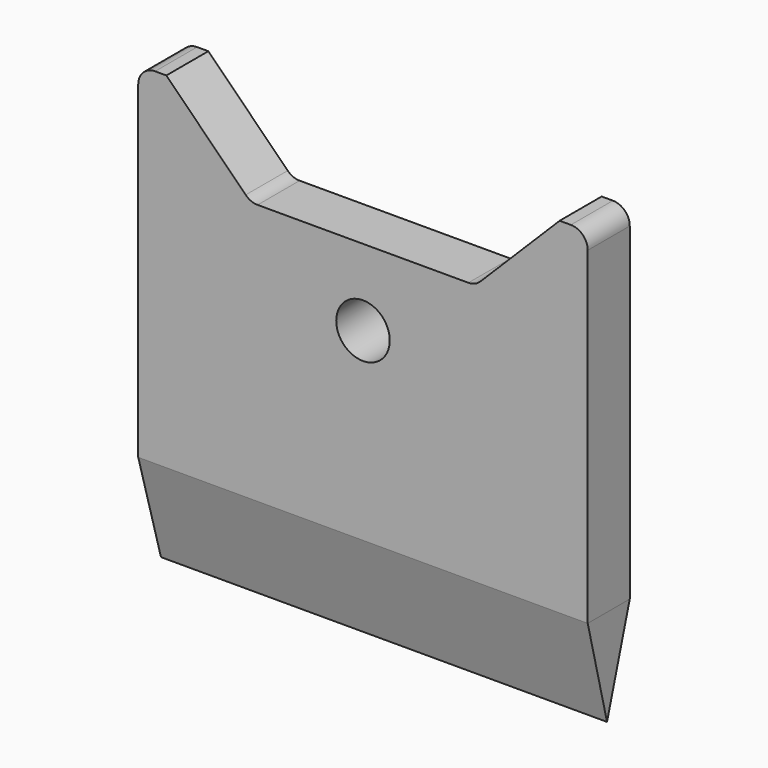
from build123d import *

# Parameters (mm, degrees)
F1_DEPTH = 9.35
F3_DEPTH = 80.001
F5_DEPTH = 9.351
F6_D     = 9.525


with BuildPart() as f1:
    # F0 (on Front) → F1 (new body)
    with BuildSketch(Plane.XZ):
        with BuildLine():
            Line((-40, -31.95), (40, -31.95))
            Line((40, -31.95), (40, 31.95))
            Line((40, 31.95), (40, 43.95))
            ThreePointArc((40, 43.95), (39.1213203436, 46.0713203436), (37, 46.95))
            Line((37, 46.95), (35, 46.95))
            Line((35, 46.95), (20.8786796564, 32.8286796564))
            ThreePointArc((20.8786796564, 32.8286796564), (19.90540961, 32.1783614025), (18.7573593129, 31.95))
            Line((18.7573593129, 31.95), (-18.7573593129, 31.95))
            ThreePointArc((-18.7573593129, 31.95), (-19.90540961, 32.1783614025), (-20.8786796564, 32.8286796564))
            Line((-20.8786796564, 32.8286796564), (-35, 46.95))
            Line((-35, 46.95), (-37, 46.95))
            ThreePointArc((-37, 46.95), (-39.1213203436, 46.0713203436), (-40, 43.95))
            Line((-40, 43.95), (-40, 31.95))
            Line((-40, 31.95), (-40, -31.95))
        make_face()
    extrude(amount=F1_DEPTH)

    # F2 (on face) → F3 (cut, through all)
    with BuildSketch(Plane.YZ.offset(40)):
        Polygon((0.6493095733, -12.0794061572), (-4.675, -31.95), (-9.9993095733, -12.0794061572), (-14.2520674504, -12.0794061572), (-14.2520674504, -36.8148345501), (6.057018973, -36.8148345501), (6.057018973, -12.0794061572), align=None)
    extrude(amount=-F3_DEPTH, mode=Mode.SUBTRACT)

    # F4 (on face) → F5 (cut, through all)
    with BuildSketch(Plane.XZ.offset(9.35)):
        Polygon((-39.5772941897, -38.7194621272), (-40, -14.5026624746), (-52.0872474203, -14.5026624746), (-52.0872474203, -38.7194621272), align=None)
        Polygon((48.822511771, -14.5026624746), (40, -14.5026624746), (39.5603374031, -39.6909157795), (48.822511771, -39.6909157795), align=None)
    extrude(amount=-F5_DEPTH, mode=Mode.SUBTRACT)

    # F6 (through all)
    with Locations(Plane(origin=(0, 0, 0), x_dir=(1, 0, 0), z_dir=(0, 1, 0))):
        with Locations((0, -18.35)):
            Hole(F6_D / 2)


solid = f1.part
